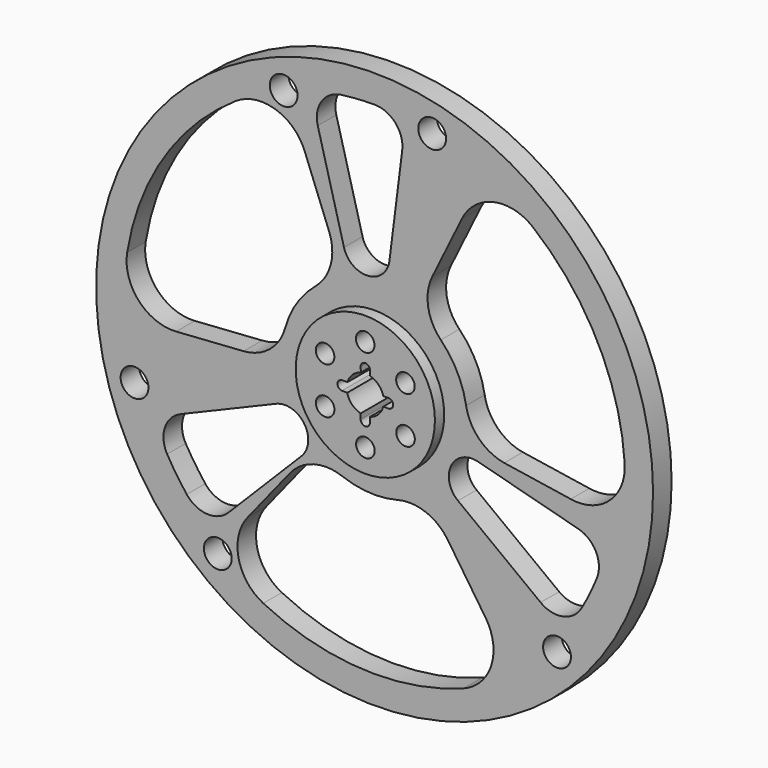
from build123d import *

# Parameters (mm, degrees)
F0_R     = 1524
F0_R_2   = 76.2
F0_R_3   = 381
F1_DEPTH = 63.5
F0_R_4   = 50.8
F2_DEPTH = 127


with BuildPart() as f1:
    # F0 (on Front) → F1 (new body, symmetric)
    with BuildSketch(Plane.XZ):
        Circle(F0_R)
        with Locations((-858.1170745427, -1070.0101150823)):
            Circle(F0_R_2, mode=Mode.SUBTRACT)
        with BuildLine():
            ThreePointArc((-461.8857812615, -552.5403538919), (-331.7989547218, -468.8035426728), (-177.2620913874, -476.0694812283))
            ThreePointArc((-177.2620913874, -476.0694812283), (-26.3865316213, -507.3142526571), (126.9163622961, -491.890472546))
            ThreePointArc((126.9163622961, -491.890472546), (280.557703873, -500.3846663385), (401.101208887, -596.0250164459))
            Line((401.101208887, -596.0250164459), (607.6385459906, -902.9336395474))
            ThreePointArc((607.6385459906, -902.9336395474), (638.9830182243, -1121.670038313), (487.1191261268, -1282.1862255388))
            ThreePointArc((487.1191261268, -1282.1862255388), (-66.5362029334, -1369.9852165988), (-609.0775800349, -1228.9471353557))
            ThreePointArc((-609.0775800349, -1228.9471353557), (-744.6718165916, -1054.4699417253), (-692.2780797644, -839.8004645615))
            Line((-692.2780797644, -839.8004645615), (-461.8857812615, -552.5403538919))
        make_face(mode=Mode.SUBTRACT)
        with Locations((-1313.6507831564, -394.4720267807)):
            Circle(F0_R_2, mode=Mode.SUBTRACT)
        with BuildLine():
            ThreePointArc((-1027.9623360534, -840.4221415097), (-1084.3004928018, -762.8967672342), (-1135.0877185797, -681.6266665812))
            ThreePointArc((-1135.0877185797, -681.6266665812), (-1147.5535140319, -556.8415254044), (-1062.2100068145, -464.9545660979))
            Line((-1062.2100068145, -464.9545660979), (-539.2658150417, -244.9223594641))
            ThreePointArc((-539.2658150417, -244.9223594641), (-384.7293098568, -290.9574338805), (-399.9138229098, -451.4883968585))
            Line((-399.9138229098, -451.4883968585), (-799.7650540107, -853.9853442409))
            ThreePointArc((-799.7650540107, -853.9853442409), (-901.4305461681, -898.8415484488), (-1006.5264175034, -862.7471004022))
            ThreePointArc((-1006.5264175034, -862.7471004022), (-1017.8125753987, -852.1301923679), (-1027.9623360534, -840.4221415097))
        make_face(mode=Mode.SUBTRACT)
        with Locations((998.4481878527, -940.4189365244)):
            Circle(F0_R_2, mode=Mode.SUBTRACT)
        with BuildLine():
            ThreePointArc((1216.6175000934, -513.7606923094), (1177.647634907, -601.3136543936), (1132.6592760624, -685.9317324315))
            ThreePointArc((1132.6592760624, -685.9317324315), (1030.8250715145, -759.1199985598), (908.5768768699, -731.1538329149))
            Line((908.5768768699, -731.1538329149), (456.5513003879, -388.286981395))
            ThreePointArc((456.5513003879, -388.286981395), (419.1505917051, -231.4369048846), (565.7667402646, -164.3215974436))
            Line((565.7667402646, -164.3215974436), (1114.2649371939, -309.3544476202))
            ThreePointArc((1114.2649371939, -309.3544476202), (1211.5773667904, -388.4557659455), (1216.6175000934, -513.7606923094))
        make_face(mode=Mode.SUBTRACT)
        with BuildLine():
            ThreePointArc((-1353.9654067625, 219.2355748743), (-1153.173898917, 742.6146503111), (-759.7606491087, 1141.9502248636))
            ThreePointArc((-759.7606491087, 1141.9502248636), (-540.8618487654, 1172.1396815133), (-381.149496538, 1019.4306358399))
            Line((-381.149496538, 1019.4306358399), (-247.5710924557, 676.2749971652))
            ThreePointArc((-247.5710924557, 676.2749971652), (-240.0962999779, 521.7480950746), (-323.6572190165, 391.5482148836))
            ThreePointArc((-323.6572190165, 391.5482148836), (-426.1537646923, 276.5085330303), (-489.4478262524, 136.0324423687))
            ThreePointArc((-489.4478262524, 136.0324423687), (-573.6246846499, 7.2222343878), (-716.7234099767, -49.3513281618))
            Line((-716.7234099767, -49.3513281618), (-1085.7827427749, -74.7635973728))
            ThreePointArc((-1085.7827427749, -74.7635973728), (-1290.8862569551, 7.4594927874), (-1353.9654067625, 219.2355748743))
        make_face(mode=Mode.SUBTRACT)
        with BuildLine():
            ThreePointArc((81.381338773, 645.9443512643), (-36.0791053062, 535.1070422522), (-167.3550013866, 629.1735299118))
            Line((-167.3550013866, 629.1735299118), (-310.9418087192, 1168.9901931113))
            ThreePointArc((-310.9418087192, 1168.9901931113), (-290.4599765983, 1292.7125519141), (-184.1207489495, 1359.1858260761))
            ThreePointArc((-184.1207489495, 1359.1858260761), (-92.2693907912, 1368.4929373303), (0, 1371.6))
            ThreePointArc((0, 1371.6), (114.3, 1320.0031249516), (151.2046874273, 1200.15))
            Line((151.2046874273, 1200.15), (81.381338773, 645.9443512643))
        make_face(mode=Mode.SUBTRACT)
        with Locations((-497.5974046962, 1278.1562435163)):
            Circle(F0_R_2, mode=Mode.SUBTRACT)
        Circle(F0_R_3, mode=Mode.SUBTRACT)
        with BuildLine():
            ThreePointArc((709.4568737172, -123.7346432733), (571.8952546996, -52.9445524018), (500.9193104039, 84.5212663447))
            ThreePointArc((500.9193104039, 84.5212663447), (452.5402963136, 230.8057196267), (362.5314639563, 355.8580301773))
            ThreePointArc((362.5314639563, 355.8580301773), (293.0669807769, 493.1624319507), (315.6222010897, 645.3763446078))
            Line((315.6222010897, 645.3763446078), (478.1441967843, 977.6972369202))
            ThreePointArc((478.1441967843, 977.6972369202), (651.9032387308, 1114.2105455256), (866.8462806357, 1062.9506506645))
            ThreePointArc((866.8462806357, 1062.9506506645), (1219.7101018504, 627.3705662877), (1368.8382291435, 86.9969104921))
            ThreePointArc((1368.8382291435, 86.9969104921), (1285.533665357, -117.669739788), (1073.4275763024, -179.6301712784))
            Line((1073.4275763024, -179.6301712784), (709.4568737172, -123.7346432733))
        make_face(mode=Mode.SUBTRACT)
        with Locations((315.2025953038, 1334.8909633052)):
            Circle(F0_R_2, mode=Mode.SUBTRACT)
    extrude(amount=F1_DEPTH, both=True)


with BuildPart() as f2:
    # F0 (on Front) → F2 (new body, symmetric)
    with BuildSketch(Plane.XZ):
        Circle(F0_R_3)
        with Locations((-219.7113799869, -127.4476735929)):
            Circle(F0_R_4, mode=Mode.SUBTRACT)
        with Locations((0.5172329913, -253.9994733657)):
            Circle(F0_R_4, mode=Mode.SUBTRACT)
        with Locations((220.2286129782, -126.5517997727)):
            Circle(F0_R_4, mode=Mode.SUBTRACT)
        with Locations((-220.2286129782, 126.5517997727)):
            Circle(F0_R_4, mode=Mode.SUBTRACT)
        with Locations((-0.5172329913, 253.9994733657)):
            Circle(F0_R_4, mode=Mode.SUBTRACT)
        with BuildLine():
            ThreePointArc((-97.5177725062, 28.5104199447), (-70.2713101064, 73.3791726305), (-24.2661441561, 98.6595877135))
            Line((-24.2661441561, 98.6595877135), (-25.3789346482, 125.9657485219))
            ThreePointArc((-25.3789346482, 125.9657485219), (-0.5172329913, 152.394733116), (25.4, 127))
            Line((25.4, 127), (25.4, 98.3737769937))
            ThreePointArc((25.4, 98.3737769937), (71.8901264516, 71.79393929), (98.4076961121, 25.2682675685))
            Line((98.4076961121, 25.2682675685), (126.9999316794, 25.2682675685))
            ThreePointArc((126.9999316794, 25.2682675685), (152.3999316794, -0.1317324315), (126.9999316794, -25.5317324315))
            Line((126.9999316794, -25.5317324315), (98.3396697119, -25.5317324315))
            ThreePointArc((98.3396697119, -25.5317324315), (71.7939226474, -71.8901430719), (25.4, -98.3737769937))
            Line((25.4, -98.3737769937), (25.4, -127))
            ThreePointArc((25.4, -127), (0, -152.4), (-25.4, -127))
            Line((-25.4, -127), (-25.4, -98.3737769937))
            ThreePointArc((-25.4, -98.3737769937), (-72.7524713395, -70.9199401719), (-98.989618612, -22.8826442322))
            Line((-98.989618612, -22.8826442322), (-127.4952283276, -22.2839803452))
            ThreePointArc((-127.4952283276, -22.2839803452), (-152.3605049021, 3.3770963728), (-126.9619048682, 28.5104199447))
            Line((-126.9619048682, 28.5104199447), (-97.5177725062, 28.5104199447))
        make_face(mode=Mode.SUBTRACT)
        with Locations((219.7113799869, 127.4476735929)):
            Circle(F0_R_4, mode=Mode.SUBTRACT)
    extrude(amount=F2_DEPTH, both=True)


solid = Compound([f1.part, f2.part])
